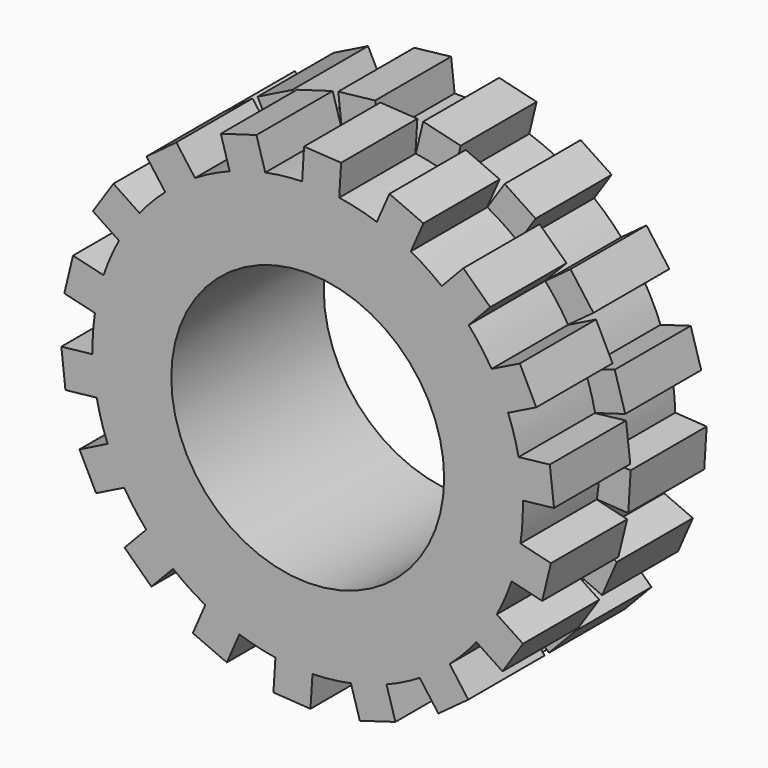
from build123d import *

# Parameters (mm, degrees)
F0_R     = 6.435
F0_R_2   = 4.08
F1_DEPTH = 5.7
F3_DEPTH = 2.85
F5_DEPTH = 2.84


with BuildPart() as f1:
    # F0 (on Front) → F1 (new body)
    with BuildSketch(Plane.XZ):
        Circle(F0_R)
        Circle(F0_R_2, mode=Mode.SUBTRACT)
    extrude(amount=F1_DEPTH)

    # F2 (on face) → F3 (join)
    with BuildSketch(Plane.XZ.offset(5.7)):
        Polygon((-2.59842, 6.898823), (-2.334261, 5.996703), (-1.268992, 6.308636), (-1.53315, 7.210756), align=None)
        Polygon((-0.109072, 7.371136), (-0.165965, 6.432859), (0.942, 6.365678), (0.998893, 7.303955), align=None)
        Polygon((-4.821629, 5.576508), (-4.262099, 4.821176), (-3.370165, 5.481899), (-3.929696, 6.23723), align=None)
        Polygon((-5.642754, 3.093308), (-5.027217, 4.017003), (-5.809446, 4.538269), (-6.424983, 3.614573), align=None)
        Polygon((-7.278092, 1.172569), (-6.363949, 0.953611), (-6.105393, 2.033078), (-7.019536, 2.252036), align=None)
        Polygon((-6.31094, -1.257481), (-6.433151, -0.15423), (-7.367437, -0.257724), (-7.245225, -1.360976), align=None)
        Polygon((-6.329055, -3.780028), (-5.488037, -3.360159), (-5.983839, -2.367043), (-6.824857, -2.786911), align=None)
        Polygon((-4.026167, -5.019881), (-4.828943, -4.253297), (-5.478122, -4.933125), (-4.675346, -5.699709), align=None)
        Polygon((-2.418582, -6.963907), (-2.044212, -6.101674), (-3.062381, -5.659598), (-3.436752, -6.521831), align=None)
        Polygon((0.142494, -6.433422), (-0.965218, -6.362199), (-1.025533, -7.300262), (0.082179, -7.371485), align=None)
        Polygon((2.623572, -6.889297), (2.356123, -5.988147), (1.291999, -6.303964), (1.559448, -7.205114), align=None)
        Polygon((4.244481, -4.836694), (3.350143, -5.494158), (3.906914, -6.251525), (4.801252, -5.594061), align=None)
        Polygon((6.438127, -3.591109), (5.654002, -3.0727), (5.041839, -3.998636), (5.825964, -4.517044), align=None)
        Polygon((6.360428, -0.976823), (6.097935, -2.055339), (7.011273, -2.27763), (7.273766, -1.199114), align=None)
        Polygon((7.240212, 1.3874), (6.30631, 1.280498), (6.432546, 0.177699), (7.366447, 0.284601), align=None)
        Polygon((5.50026, 3.340115), (5.992435, 2.345196), (6.834979, 2.761993), (6.342804, 3.756912), align=None)
        Polygon((4.654521, 5.716728), (4.007826, 5.034536), (4.813393, 4.270886), (5.460088, 4.953078), align=None)
        Polygon((2.066459, 6.094175), (3.083009, 5.648387), (3.460523, 6.509249), (2.443973, 6.955037), align=None)
    extrude(amount=-F3_DEPTH)

    # F4 (on face) → F5 (join)
    with BuildSketch(Plane(origin=(0, 0, 0), x_dir=(-1, 0, 0), z_dir=(0, 1, 0))):
        Polygon((-2.286011, 7.008294), (-2.065255, 6.094583), (-0.945089, 6.365221), (-1.165845, 7.278931), align=None)
        Polygon((0.270964, 7.366962), (0.165791, 6.432864), (1.268821, 6.30867), (1.373994, 7.242768), align=None)
        Polygon((-6.256031, 3.899245), (-5.4996, 3.341202), (-4.815465, 4.26855), (-5.571896, 4.826594), align=None)
        Polygon((-4.527821, 5.817592), (-4.007962, 5.034428), (-3.083161, 5.648304), (-3.603021, 6.431469), align=None)
        Polygon((-7.298784, -1.034304), (-6.360621, -0.975566), (-6.432631, 0.174578), (-7.370794, 0.11584), align=None)
        Polygon((-7.207989, 1.546107), (-6.306345, 1.280327), (-5.992499, 2.345034), (-6.894142, 2.610814), align=None)
        Polygon((-4.926355, -5.483891), (-4.245437, -4.835855), (-5.039898, -4.001081), (-5.720816, -4.649117), align=None)
        Polygon((-6.515458, -3.448819), (-5.653919, -3.072853), (-6.097879, -2.055504), (-6.959418, -2.43147), align=None)
        Polygon((-0.24883, -7.367504), (-0.143766, -6.433394), (-1.288941, -6.30459), (-1.394005, -7.2387), align=None)
        Polygon((-2.774272, -6.830004), (-2.355962, -5.988211), (-3.349994, -5.494248), (-3.768305, -6.336042), align=None)
        Polygon((4.545126, -5.80378), (4.025175, -5.020676), (3.065127, -5.658111), (3.585077, -6.441215), align=None)
        Polygon((2.265026, -7.015355), (2.044377, -6.101619), (0.96539, -6.362173), (1.18604, -7.275909), align=None)
        Polygon((7.212366, -1.524403), (6.310692, -1.258729), (5.984987, -2.364139), (6.886662, -2.629814), align=None)
        Polygon((6.244494, -3.918143), (5.488128, -3.360011), (4.829058, -4.253166), (5.585424, -4.811298), align=None)
        Polygon((6.50486, 3.468259), (5.643365, 3.092192), (6.104406, 2.03604), (6.965901, 2.412106), align=None)
        Polygon((7.302093, 1.012412), (6.363924, 0.953783), (6.433156, -0.154056), (7.371325, -0.095427), align=None)
        Polygon((2.753658, 6.838084), (2.335446, 5.996242), (3.367505, 5.483533), (3.785717, 6.325375), align=None)
        Polygon((4.942962, 5.469248), (4.261968, 4.821291), (5.027108, 4.017139), (5.708102, 4.665095), align=None)
    extrude(amount=-F5_DEPTH)


solid = f1.part
